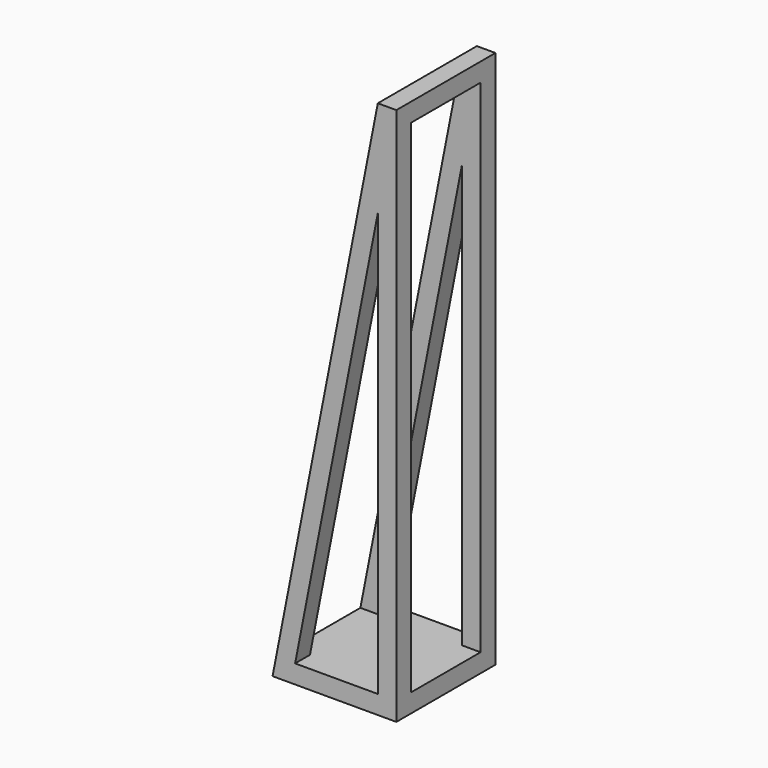
from build123d import *

# Parameters (mm, degrees)
F1_DEPTH = 25.4
F2_W     = 17.78
F2_H     = 102.87
F3_DEPTH = 50.8


with BuildPart() as f1:
    # F0 (on Front) → F1 (new body)
    with BuildSketch(Plane.XZ):
        Polygon((-26.637435, 76.336338), (-30.447435, 76.336338), (-52.037435, -34.153662), (-26.637435, -34.153662), align=None)
        Polygon((-47.410897, -30.343662), (-30.447435, 56.469348), (-30.447435, -30.343662), align=None, mode=Mode.SUBTRACT)
    extrude(amount=F1_DEPTH)

    # F2 (on face) → F3 (cut)
    with BuildSketch(Plane.YZ.offset(-26.637435)):
        with Locations((-12.7, 21.091338)):
            Rectangle(F2_W, F2_H)
    extrude(amount=-F3_DEPTH, mode=Mode.SUBTRACT)


solid = f1.part
